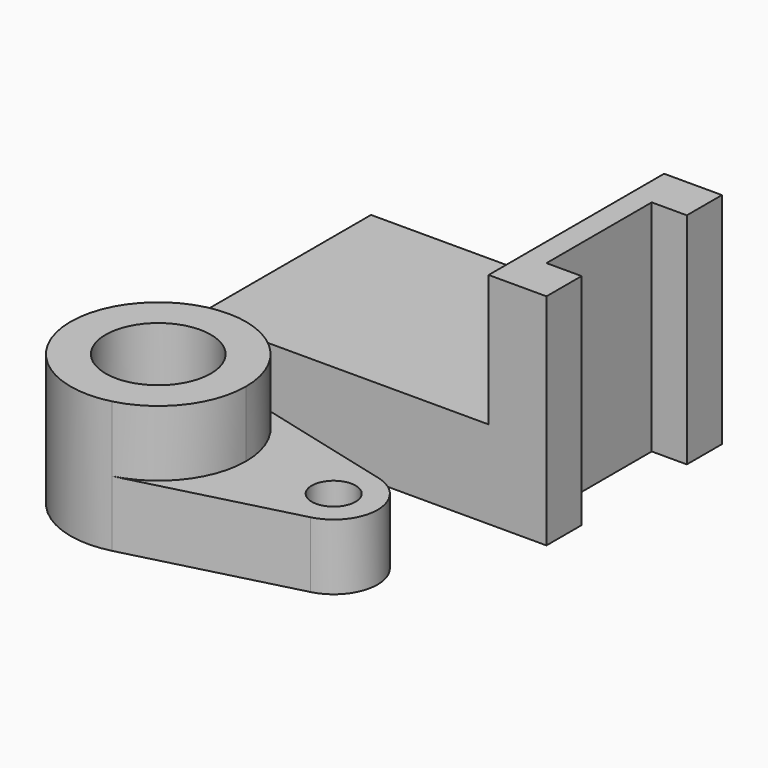
from build123d import *

# Parameters (mm, degrees)
F0_W     = 66.818652
F0_H     = 50
F1_DEPTH = 20
F2_DEPTH = 50
F3_R     = 12
F4_DEPTH = 30
F3_R_2   = 5
F5_DEPTH = 15


with BuildPart() as f1:
    # F0 (on Top) → F1 (new body)
    with BuildSketch(Plane.XY):
        with Locations((-5.102272, 11.433766)):
            Rectangle(F0_W, F0_H)
    extrude(amount=F1_DEPTH)

    # F0 (on Top) → F2 (join)
    with BuildSketch(Plane.XY):
        Polygon((41.488402, 36.433766), (28.307054, 36.433766), (28.307054, -13.566234), (41.488402, -13.566234), (41.488402, -3.566234), (33.488402, -3.566234), (33.488402, 26.433766), (41.488402, 26.433766), align=None)
    extrude(amount=F2_DEPTH)


with BuildPart() as f4:
    # F3 (on Top) → F4 (new body)
    with BuildSketch(Plane.XY):
        with BuildLine():
            ThreePointArc((-17.560557, -63.504676), (-6.749169, -56.387208), (-2.560557, -44.139759))
            ThreePointArc((-2.560557, -44.139759), (-6.749169, -31.892311), (-17.560557, -24.774843))
            ThreePointArc((-17.560557, -24.774843), (-42.560557, -44.139759), (-17.560557, -63.504676))
        make_face()
        with Locations((-22.560557, -44.139759)):
            Circle(F3_R, mode=Mode.SUBTRACT)
    extrude(amount=F4_DEPTH)

    # F3 (on Top) → F5 (join)
    with BuildSketch(Plane.XY):
        with BuildLine():
            ThreePointArc((-17.560557, -24.774843), (-6.749169, -31.892311), (-2.560557, -44.139759))
            ThreePointArc((-2.560557, -44.139759), (-6.749169, -56.387208), (-17.560557, -63.504676))
            Line((-17.560557, -63.504676), (19.939443, -53.822218))
            ThreePointArc((19.939443, -53.822218), (27.439443, -44.139759), (19.939443, -34.457301))
            Line((19.939443, -34.457301), (-17.560557, -24.774843))
        make_face()
        with Locations((17.439443, -44.139759)):
            Circle(F3_R_2, mode=Mode.SUBTRACT)
    extrude(amount=F5_DEPTH)


solid = Compound([f1.part, f4.part])
